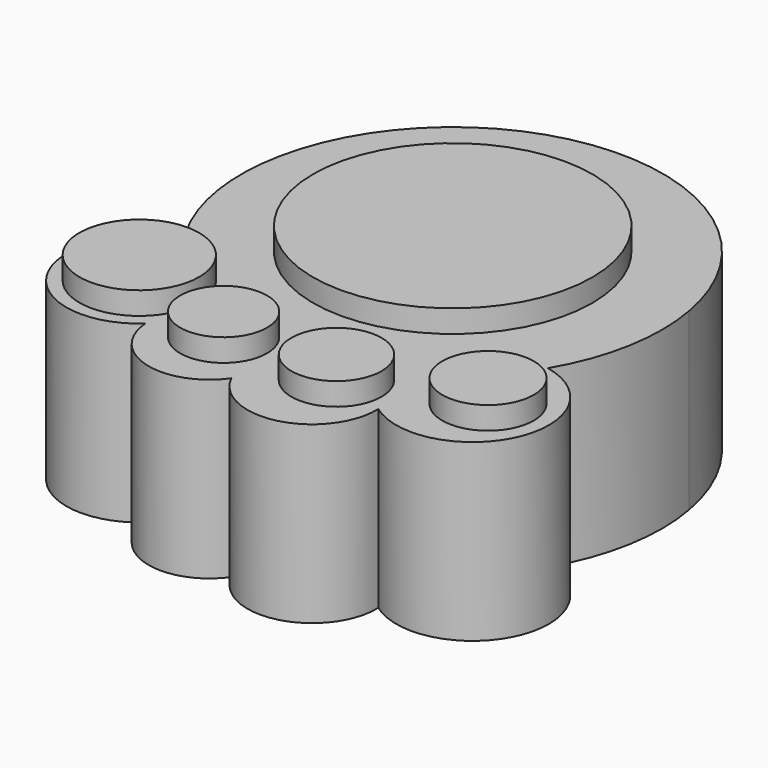
from build123d import *

# Parameters (mm, degrees)
F1_DEPTH = 9.3
F2_R     = 7.4213549333
F2_R_2   = 3.1815358487
F2_R_3   = 2.3103538903
F2_R_4   = 2.3953978144
F2_R_5   = 2.4306675127
F3_DEPTH = 1.2


with BuildPart() as f1:
    # F0 (on Top) → F1 (new body)
    with BuildSketch(Plane.XY):
        with BuildLine():
            ThreePointArc((-18.3004729587, 25.7488646483), (-16.9307669757, 29.4600974462), (-16.9389080256, 33.4160141647))
            ThreePointArc((-16.9389080256, 33.4160141647), (-27.8122380676, 42.6489766388), (-38.8949178159, 33.6683802307))
            ThreePointArc((-38.8949178159, 33.6683802307), (-38.9054329765, 29.2141712974), (-37.1765067827, 25.1091862783))
            ThreePointArc((-37.1765067827, 25.1091862783), (-35.1477566437, 22.8641370486), (-32.5913859219, 21.2451738298))
            ThreePointArc((-32.5913859219, 21.2451738298), (-30.2580300956, 20.4751404155), (-27.8128294464, 20.2332837294))
            ThreePointArc((-27.8128294464, 20.2332837294), (-25.4265044225, 20.5189898006), (-23.1563369345, 21.3079857798))
            ThreePointArc((-23.1563369345, 21.3079857798), (-20.3943690235, 23.1631747639), (-18.3004729587, 25.7488646483))
        make_face()
        with BuildLine():
            ThreePointArc((-21.5058938379, 18.49241862), (-15.4174244879, 20.1391282026), (-18.3004729587, 25.7488646483))
            ThreePointArc((-18.3004729587, 25.7488646483), (-20.3943690235, 23.1631747639), (-23.1563369345, 21.3079857798))
            ThreePointArc((-23.1563369345, 21.3079857798), (-21.9745400177, 20.1092213147), (-21.5058938379, 18.49241862))
        make_face()
        with BuildLine():
            ThreePointArc((-32.5913859219, 21.2451738298), (-35.1477566437, 22.8641370486), (-37.1765067827, 25.1091862783))
            ThreePointArc((-37.1765067827, 25.1091862783), (-39.9197400879, 19.57935889), (-33.8508013782, 18.4513948615))
            ThreePointArc((-33.8508013782, 18.4513948615), (-33.5745375326, 20.0076143047), (-32.5913859219, 21.2451738298))
        make_face()
        with BuildLine():
            ThreePointArc((-21.5058938379, 18.49241862), (-22.6267961898, 19.7268785626), (-23.1563369345, 21.3079857798))
            ThreePointArc((-23.1563369345, 21.3079857798), (-25.4265044225, 20.5189898006), (-27.8128294464, 20.2332837294))
            ThreePointArc((-27.8128294464, 20.2332837294), (-27.4203125791, 18.5099777966), (-27.9959938241, 16.8389170756))
            ThreePointArc((-27.9959938241, 16.8389170756), (-24.0855301415, 15.0538762887), (-21.5058938379, 18.49241862))
        make_face()
        with BuildLine():
            ThreePointArc((-21.5058938379, 18.49241862), (-21.9745400177, 20.1092213147), (-23.1563369345, 21.3079857798))
            ThreePointArc((-23.1563369345, 21.3079857798), (-22.6267961898, 19.7268785626), (-21.5058938379, 18.49241862))
        make_face()
        with BuildLine():
            ThreePointArc((-27.8128294464, 20.2332837294), (-30.2580300956, 20.4751404155), (-32.5913859219, 21.2451738298))
            ThreePointArc((-32.5913859219, 21.2451738298), (-32.932636463, 19.7182499213), (-33.8508013782, 18.4513948615))
            ThreePointArc((-33.8508013782, 18.4513948615), (-31.4928658765, 15.5774517251), (-27.9959938241, 16.8389170756))
            ThreePointArc((-27.9959938241, 16.8389170756), (-28.3547938845, 18.5604036062), (-27.8128294464, 20.2332837294))
        make_face()
        with BuildLine():
            ThreePointArc((-33.8508013782, 18.4513948615), (-32.932636463, 19.7182499213), (-32.5913859219, 21.2451738298))
            ThreePointArc((-32.5913859219, 21.2451738298), (-33.5745375326, 20.0076143047), (-33.8508013782, 18.4513948615))
        make_face()
        with BuildLine():
            ThreePointArc((-27.9959938241, 16.8389170756), (-27.4203125791, 18.5099777966), (-27.8128294464, 20.2332837294))
            ThreePointArc((-27.8128294464, 20.2332837294), (-28.3547938845, 18.5604036062), (-27.9959938241, 16.8389170756))
        make_face()
    extrude(amount=F1_DEPTH)

    # F2 (on face) → F3 (join)
    with BuildSketch(Plane.XY.offset(9.3)):
        with Locations((-27.9406308089, 31.4787256965)):
            Circle(F2_R)
        with Locations((-36.4591698118, 21.3079857798)):
            Circle(F2_R_2)
        with Locations((-30.5455215275, 19.5178873837)):
            Circle(F2_R_3)
        with Locations((-24.4818478823, 19.4336697459)):
            Circle(F2_R_4)
        with Locations((-18.2497408241, 21.7075478286)):
            Circle(F2_R_5)
    extrude(amount=F3_DEPTH)


solid = f1.part
